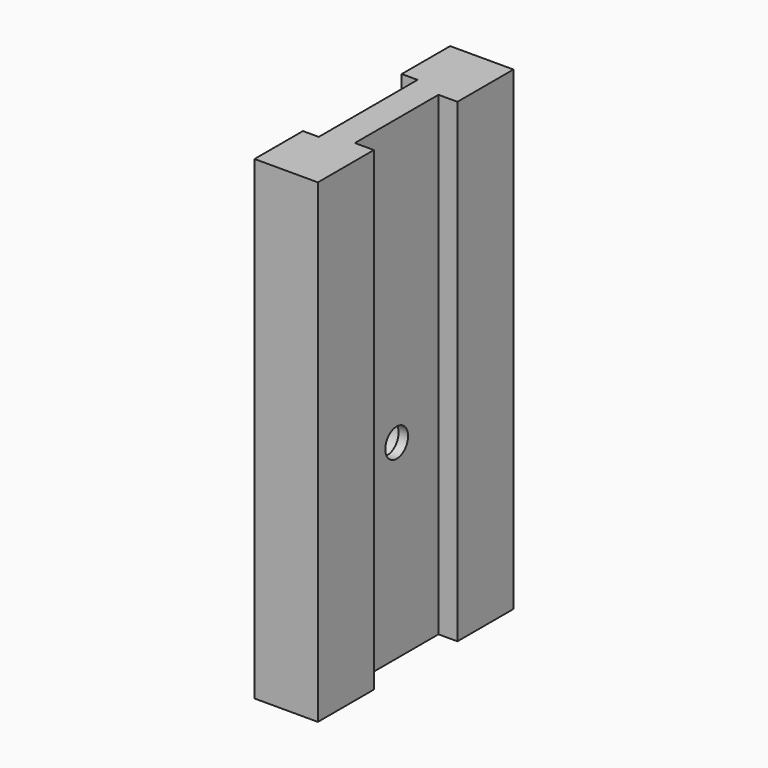
from build123d import *

# Parameters (mm, degrees)
F1_DEPTH       = 75
F3_D           = 4.5
F3_CBORE_D     = 7.5
F3_CBORE_DEPTH = 3


with BuildPart() as f1:
    # F0 (on Top) → F1 (new body)
    with BuildSketch(Plane.XY):
        Polygon((0, 9.55), (0, 0), (10, 0), (10, 11.05), (7, 11.05), (7, 27.55), (10, 27.55), (10, 38.6), (0, 38.6), (0, 29.05), (2.5, 29.05), (2.5, 9.55), align=None)
    extrude(amount=F1_DEPTH)

    # F3 (through all)
    with Locations(Plane(origin=(2.5, 0, 0), x_dir=(0, -1, 0), z_dir=(-1, 0, 0))):
        with Locations((-19.3, 30)):
            CounterBoreHole(F3_D / 2, F3_CBORE_D / 2, F3_CBORE_DEPTH)


solid = f1.part
